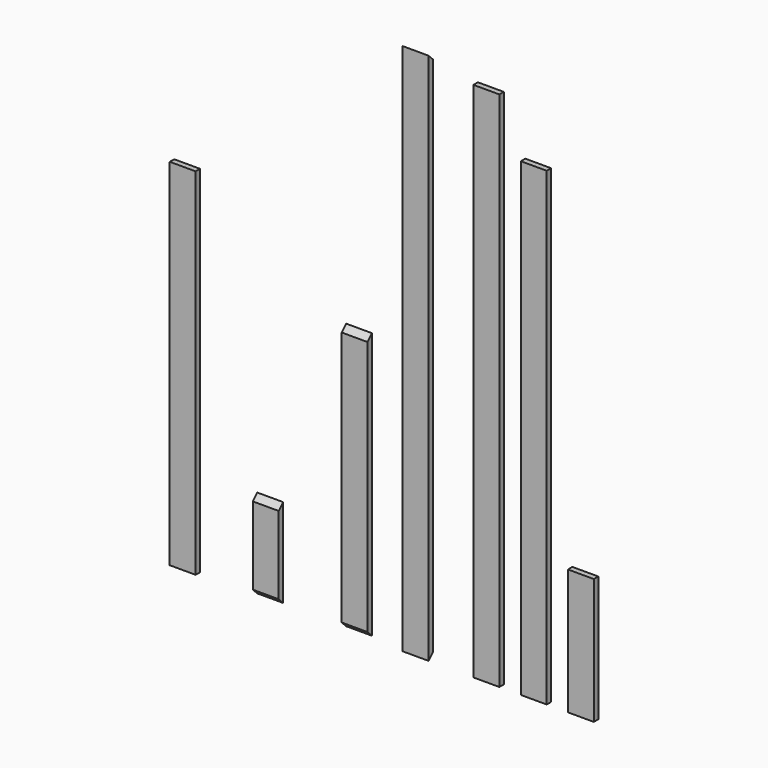
from build123d import *

# Parameters (mm, degrees)
F0_W      = 88.9
F0_H      = 19.05
F1_DEPTH  = 1828.8
F3_DEPTH  = 413.46128
F4_W      = 88.9
F4_H      = 19.05
F5_DEPTH  = 914.4
F7_DEPTH  = 204.40578
F8_W      = 88.9
F8_H      = 19.05
F9_DEPTH  = 1790.7
F10_W     = 88.9
F10_H     = 19.05
F11_DEPTH = 304.8
F13_DEPTH = 205.58275
F14_W     = 88.9
F14_H     = 19.05
F15_DEPTH = 1612.9
F16_W     = 88.9
F16_H     = 19.05
F17_DEPTH = 1219.2
F18_W     = 88.9
F18_H     = 19.05
F19_DEPTH = 431.8


with BuildPart() as f1:
    # F0 (on Top) → F1 (new body)
    with BuildSketch(Plane.XY):
        Rectangle(F0_W, F0_H)
    extrude(amount=F1_DEPTH)

    # F2 (on face) → F3 (cut)
    with BuildSketch(Plane.YZ.offset(44.45)):
        Polygon((9.525, 1828.8), (-9.525, 1828.8), (9.525, 1809.75), align=None)
        Polygon((9.525, 19.05), (-9.525, 0), (9.525, 0), align=None)
    extrude(amount=-F3_DEPTH, mode=Mode.SUBTRACT)


with BuildPart() as f5:
    # F4 (on Top) → F5 (new body)
    with BuildSketch(Plane.XY):
        with Locations((-209.135253, 0)):
            Rectangle(F4_W, F4_H)
    extrude(amount=F5_DEPTH)

    # F6 (on face) → F7 (cut)
    with BuildSketch(Plane(origin=(-253.585253, 0, 0), x_dir=(0, -1, 0), z_dir=(-1, 0, 0))):
        Polygon((9.525, 914.4), (-9.525, 914.4), (9.525, 895.35), align=None)
        Polygon((9.525, 19.05), (-9.525, 0), (9.525, 0), align=None)
    extrude(amount=-F7_DEPTH, mode=Mode.SUBTRACT)


with BuildPart() as f9:
    # F8 (on Top) → F9 (new body)
    with BuildSketch(Plane.XY):
        with Locations((243.136883, 0)):
            Rectangle(F8_W, F8_H)
    extrude(amount=F9_DEPTH)


with BuildPart() as f11:
    # F10 (on Top) → F11 (new body)
    with BuildSketch(Plane.XY):
        with Locations((-514.314536, 0)):
            Rectangle(F10_W, F10_H)
    extrude(amount=F11_DEPTH)

    # F12 (on face) → F13 (cut)
    with BuildSketch(Plane(origin=(-558.764536, 0, 0), x_dir=(0, -1, 0), z_dir=(-1, 0, 0))):
        Polygon((9.525, 19.05), (-9.525, 0), (9.525, 0), align=None)
        Polygon((9.525, 304.8), (-9.525, 304.8), (9.525, 285.75), align=None)
    extrude(amount=-F13_DEPTH, mode=Mode.SUBTRACT)


with BuildPart() as f15:
    # F14 (on Top) → F15 (new body)
    with BuildSketch(Plane.XY):
        with Locations((405.776913, 0)):
            Rectangle(F14_W, F14_H)
    extrude(amount=F15_DEPTH)


with BuildPart() as f17:
    # F16 (on Top) → F17 (new body)
    with BuildSketch(Plane.XY):
        with Locations((-799.323208, 0)):
            Rectangle(F16_W, F16_H)
    extrude(amount=F17_DEPTH)


with BuildPart() as f19:
    # F18 (on Top) → F19 (new body)
    with BuildSketch(Plane.XY):
        with Locations((567.375932, 0)):
            Rectangle(F18_W, F18_H)
    extrude(amount=F19_DEPTH)


solid = Compound([f1.part, f5.part, f9.part, f11.part, f15.part, f17.part, f19.part])
